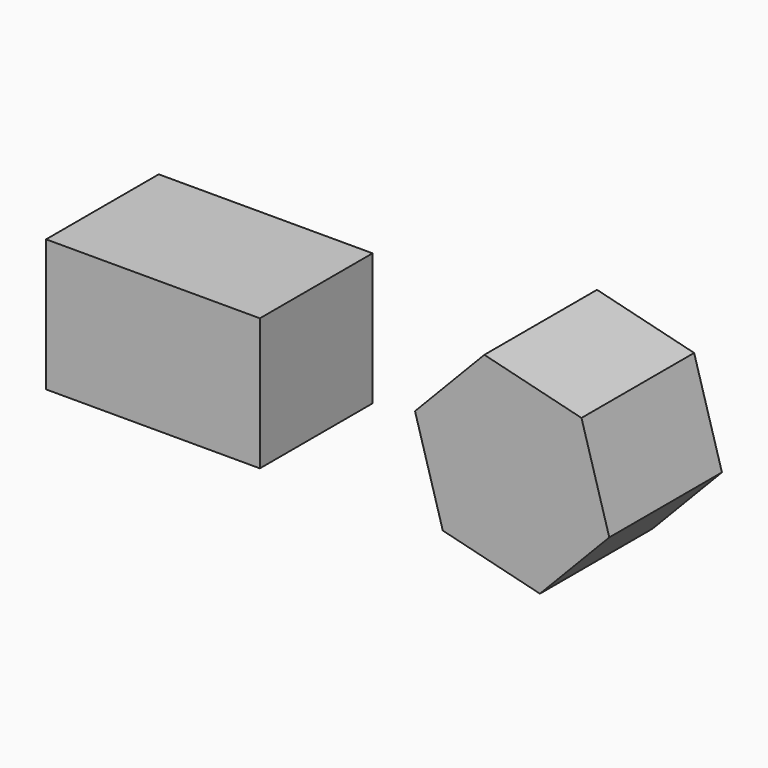
from build123d import *

# Parameters (mm, degrees)
F0_W     = 38.56829
F0_H     = 23.834334
F1_DEPTH = 25.4
F3_DEPTH = 25.4


with BuildPart() as f1:
    # F0 (on Front) → F1 (new body)
    with BuildSketch(Plane.XZ):
        with Locations((-43.335161, 37.268228)):
            Rectangle(F0_W, F0_H)
    extrude(amount=F1_DEPTH)


with BuildPart() as f3:
    # F2 (on Front) → F3 (new body)
    with BuildSketch(Plane.XZ):
        Polygon((26.463141, 21.879438), (38.972924, 34.889609), (33.960678, 52.228485), (16.438647, 56.55719), (3.928863, 43.547019), (8.94111, 26.208143), align=None)
    extrude(amount=F3_DEPTH)


solid = Compound([f1.part, f3.part])
